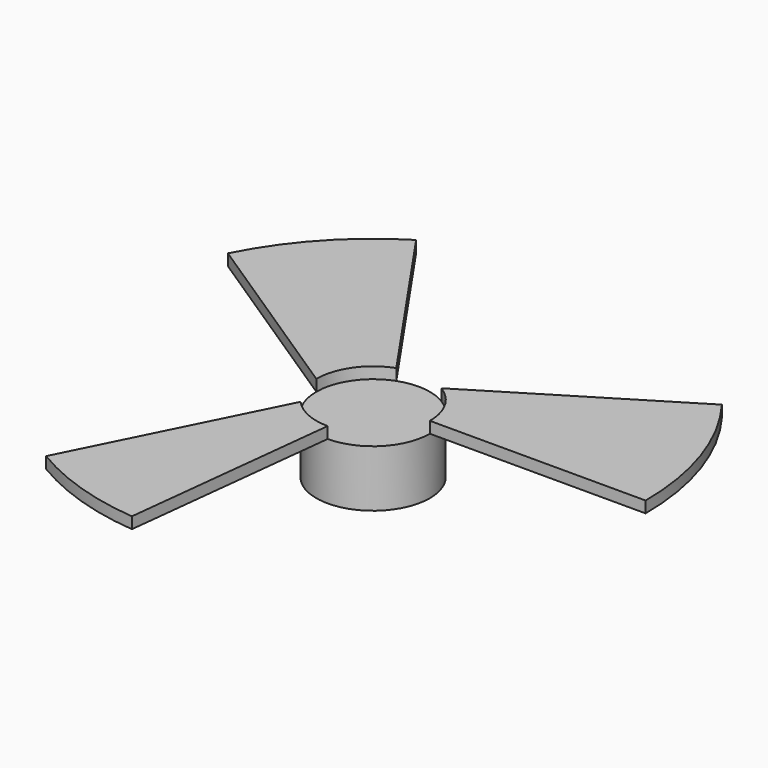
from build123d import *

# Parameters (mm, degrees)
F0_R     = 127
F1_DEPTH = 127
F2_R     = 609.6
F3_DEPTH = 25.4
F5_DEPTH = 25.4


with BuildPart() as f1:
    # F0 (on Top) → F1 (new body)
    with BuildSketch(Plane.XY):
        Circle(F0_R)
    extrude(amount=F1_DEPTH)

    # F2 (on face) → F3 (join)
    with BuildSketch(Plane.XY.offset(127)):
        Circle(F2_R)
    extrude(amount=F3_DEPTH)

    # F4 (on face) → F5 (cut)
    with BuildSketch(Plane(origin=(0, 0, 127), x_dir=(1, 0, 0), z_dir=(0, 0, -1))):
        with BuildLine():
            ThreePointArc((0, 127), (-51.651949, 116.021878), (-94.374113, 84.985451))
            ThreePointArc((-94.374113, 84.985451), (-118.5633, 45.516413), (-127, 0))
            ThreePointArc((-127, 0), (-104.056224, -72.810042), (-43.514927, -119.31241))
            ThreePointArc((-43.514927, -119.31241), (12.247723, -126.408043), (65.61093, -108.739165))
            ThreePointArc((65.61093, -108.739165), (110.59292, -62.435615), (127, 0))
            ThreePointArc((127, 0), (89.802561, 89.802561), (0, 127))
        make_face()
        with BuildLine():
            ThreePointArc((-127, 0), (-118.5633, 45.516413), (-94.374113, 84.985451))
            Line((-94.374113, 84.985451), (-469.259506, 835.900678))
            ThreePointArc((-469.259506, 835.900678), (-922.532034, 260.516934), (-837.181652, -466.97035))
            Line((-837.181652, -466.97035), (-127, 0))
        make_face()
        with BuildLine():
            Line((-92.576764, 954.129954), (0, 127))
            ThreePointArc((0, 127), (89.802561, 89.802561), (127, 0))
            Line((127, 0), (958.610675, 0))
            ThreePointArc((958.610675, 0), (644.278415, 709.816702), (-92.576764, 954.129954))
        make_face()
        with BuildLine():
            ThreePointArc((65.61093, -108.739165), (12.247723, -126.408043), (-43.514927, -119.31241))
            Line((-43.514927, -119.31241), (-517.387411, -806.997332))
            ThreePointArc((-517.387411, -806.997332), (186.109184, -940.371096), (785.770908, -549.088797))
            Line((785.770908, -549.088797), (65.61093, -108.739165))
        make_face()
    extrude(amount=-F5_DEPTH, mode=Mode.SUBTRACT)


solid = f1.part
